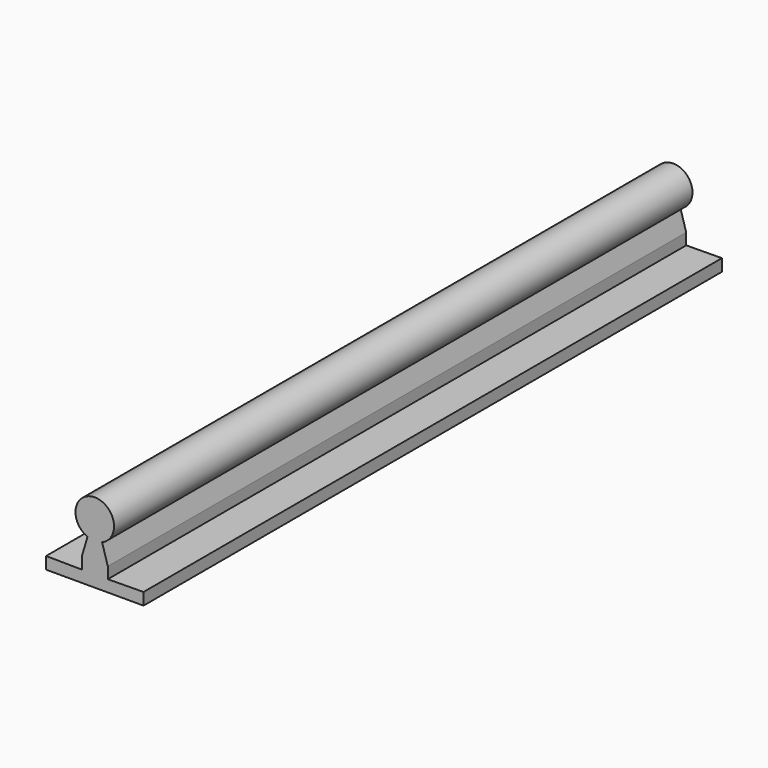
from build123d import *

# Parameters (mm, degrees)
F1_DEPTH = 300


with BuildPart() as f1:
    # F0 (on Front) → F1 (new body)
    with BuildSketch(Plane.XZ):
        with BuildLine():
            Line((5.400592, -15.418472), (3.027247, -7.405118))
            ThreePointArc((3.027247, -7.405118), (0, 8), (-3.027247, -7.405118))
            Line((-3.027247, -7.405118), (-5.400592, -15.418472))
            Line((-5.400592, -15.418472), (-5.400592, -20.151161))
            Line((-5.400592, -20.151161), (-20.206842, -20))
            Line((-20.206842, -20), (-20.206842, -25))
            Line((-20.206842, -25), (0, -25))
            Line((0, -25), (20.2184, -25))
            Line((20.2184, -25), (20.2184, -19.999882))
            Line((20.2184, -19.999882), (5.400592, -20.151161))
            Line((5.400592, -20.151161), (5.400592, -15.418472))
        make_face()
    extrude(amount=F1_DEPTH)


solid = f1.part
